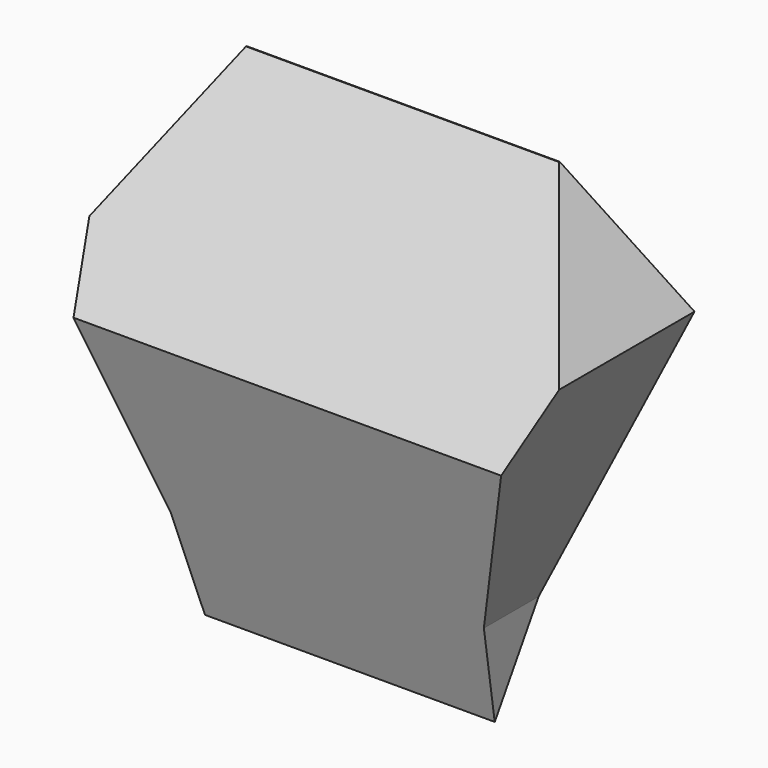
from build123d import *

# Parameters (mm, degrees)
F1_DEPTH = 139.7
F3_DEPTH = 254


with BuildPart() as f1:
    # F0 (on Front) → F1 (new body)
    with BuildSketch(Plane.XZ):
        Polygon((-101.6, 100.334205), (-152.4, 12.7), (-101.6, -140.965795), (-93.98, -204.465795), (0, -204.465795), (0, 100.334205), align=None)
        Polygon((101.6, 100.334205), (0, 100.334205), (0, -204.465795), (93.98, -204.465795), (101.6, -140.965795), (152.4, 12.7), align=None)
    extrude(amount=F1_DEPTH)

    # F2 (on Right) → F3 (cut, symmetric)
    with BuildSketch(Plane.YZ):
        Polygon((11.297926, 100.633033), (-45.92489, 100.633033), (0, 12.690174), (-88.975355, -204.561785), (-139.714777, -28.677866), (-46.015032, 100.633033), (-152.156293, 100.633033), (-152.156293, -218.677998), (11.297926, -218.677998), align=None)
    extrude(amount=F3_DEPTH, both=True, mode=Mode.SUBTRACT)


solid = f1.part
